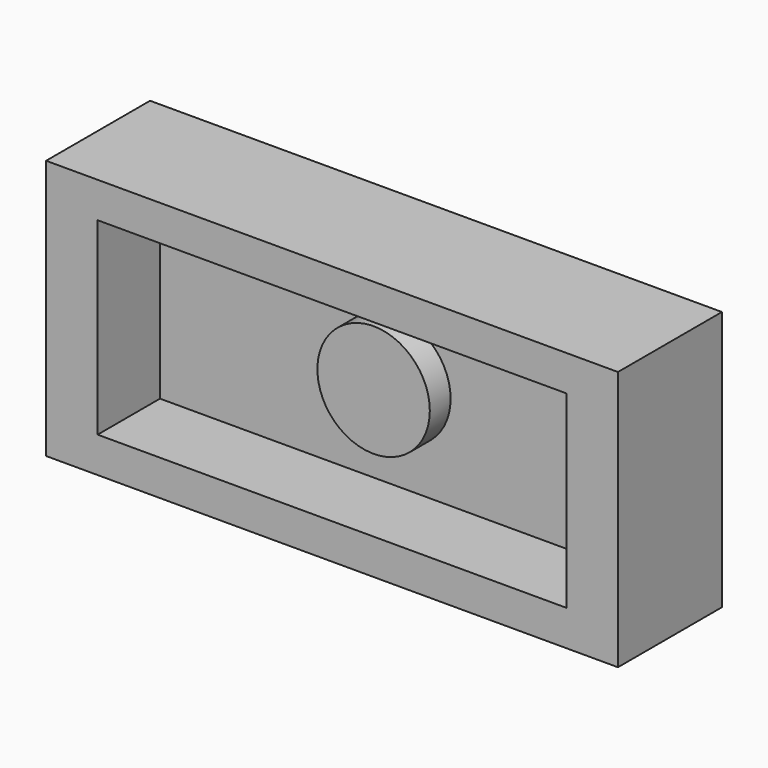
from build123d import *

# Parameters (mm, degrees)
F0_W     = 139.7
F0_H     = 63.5
F1_DEPTH = 31.75
F2_W     = 114.522352
F2_H     = 46.118464
F3_DEPTH = 12.7
F4_W     = 114.522352
F4_H     = 46.118464
F4_R     = 13.731838
F5_DEPTH = 6.35


with BuildPart() as f1:
    # F0 (on Front) → F1 (new body)
    with BuildSketch(Plane.XZ):
        Rectangle(F0_W, F0_H)
    extrude(amount=F1_DEPTH)

    # F2 (on face) → F3 (cut)
    with BuildSketch(Plane.XZ.offset(31.75)):
        Rectangle(F2_W, F2_H)
    extrude(amount=-F3_DEPTH, mode=Mode.SUBTRACT)

    # F4 (on face) → F5 (cut)
    with BuildSketch(Plane.XZ.offset(19.05)):
        Rectangle(F4_W, F4_H)
        Circle(F4_R, mode=Mode.SUBTRACT)
    extrude(amount=-F5_DEPTH, mode=Mode.SUBTRACT)


solid = f1.part
